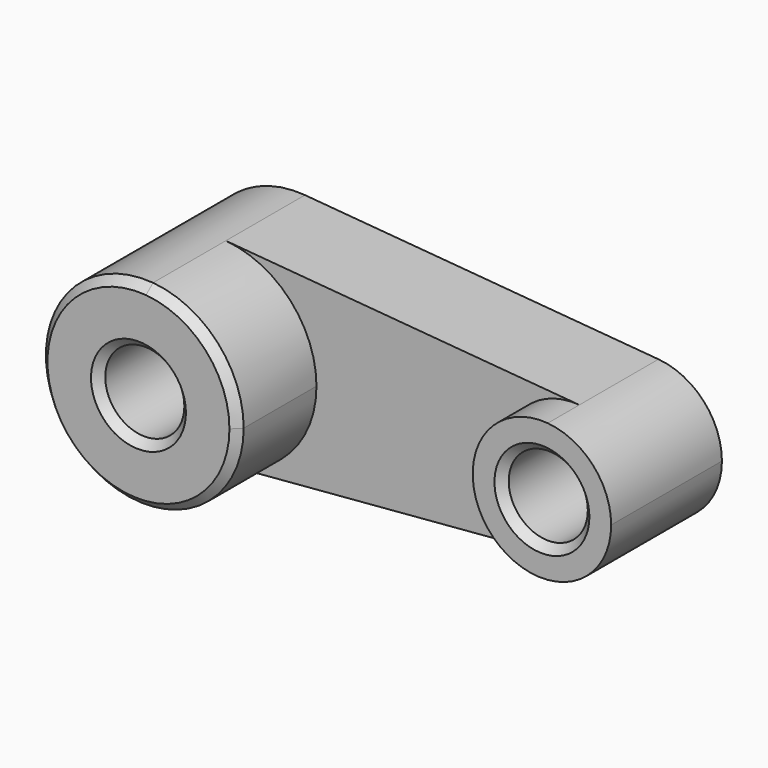
from build123d import *

# Parameters (mm, degrees)
F0_R     = 10
F1_DEPTH = 25
F2_DEPTH = 50
F3_SIZE  = 2
F4_DEPTH = 35
F5_SIZE  = 2


with BuildPart() as f1:
    # F0 (on Front) → F1 (new body)
    with BuildSketch(Plane.XZ):
        with BuildLine():
            ThreePointArc((2.083333, -24.913043), (18.399502, -16.92508), (25, 0))
            ThreePointArc((25, 0), (18.399502, 16.92508), (2.083333, 24.913043))
            ThreePointArc((2.083333, 24.913043), (-25, 0), (2.083333, -24.913043))
        make_face()
        Circle(F0_R, mode=Mode.SUBTRACT)
        with BuildLine():
            ThreePointArc((2.083333, 24.913043), (18.399502, 16.92508), (25, 0))
            ThreePointArc((25, 0), (18.399502, -16.92508), (2.083333, -24.913043))
            Line((2.083333, -24.913043), (91.458333, -17.43913))
            ThreePointArc((91.458333, -17.43913), (72.5, 0), (91.458333, 17.43913))
            Line((91.458333, 17.43913), (2.083333, 24.913043))
        make_face()
        with BuildLine():
            ThreePointArc((107.5, 0), (102.879651, 11.847556), (91.458333, 17.43913))
            ThreePointArc((91.458333, 17.43913), (72.5, 0), (91.458333, -17.43913))
            ThreePointArc((91.458333, -17.43913), (102.879651, -11.847556), (107.5, 0))
        make_face()
        with Locations((90, 0)):
            Circle(F0_R, mode=Mode.SUBTRACT)
    extrude(amount=F1_DEPTH)

    # F0 (on Front) → F2 (join)
    with BuildSketch(Plane.XZ):
        with BuildLine():
            ThreePointArc((2.083333, -24.913043), (18.399502, -16.92508), (25, 0))
            ThreePointArc((25, 0), (18.399502, 16.92508), (2.083333, 24.913043))
            ThreePointArc((2.083333, 24.913043), (-25, 0), (2.083333, -24.913043))
        make_face()
        Circle(F0_R, mode=Mode.SUBTRACT)
    extrude(amount=F2_DEPTH)

    # F3
    f3_edges = [f1.edges().sort_by_distance(p)[0] for p in [
        (-2.083333, -50, 24.913043),
        (-10, -50, 0),
        (80, -25, 0),
    ]]
    chamfer(f3_edges, length=F3_SIZE)

    # F0 (on Front) → F4 (join)
    with BuildSketch(Plane.XZ):
        with BuildLine():
            ThreePointArc((107.5, 0), (102.879651, 11.847556), (91.458333, 17.43913))
            ThreePointArc((91.458333, 17.43913), (72.5, 0), (91.458333, -17.43913))
            ThreePointArc((91.458333, -17.43913), (102.879651, -11.847556), (107.5, 0))
        make_face()
        with Locations((90, 0)):
            Circle(F0_R, mode=Mode.SUBTRACT)
    extrude(amount=F4_DEPTH)

    # F5
    f5_edges = [f1.edges().sort_by_distance(p)[0] for p in [
        (80, -35, 0),
    ]]
    chamfer(f5_edges, length=F5_SIZE)


solid = f1.part
